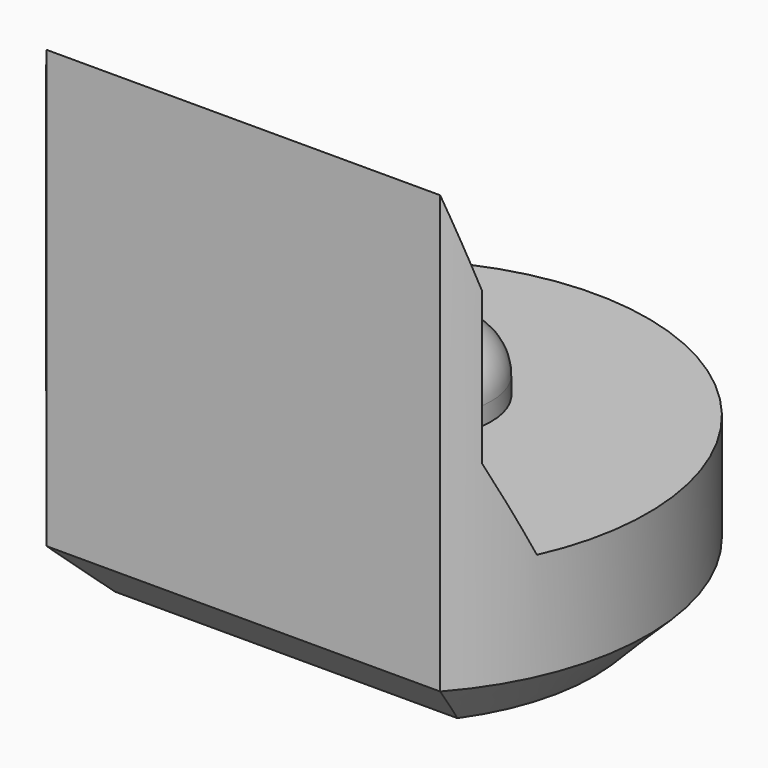
from build123d import *

# Parameters (mm, degrees)
PAD003_DEPTH         = 5.5
POCKET004_DEPTH      = 2.951
POCKET004_DEPTH_BACK = 2.951
SKETCH013_R          = 0.8
PAD006_DEPTH         = 0.7
FILLET_R             = 0.5
CHAMFER004_SIZE      = 0.6


with BuildPart() as part:
    # Sketch004 → Pad003 (new body)
    with BuildSketch(Plane.XY):
        with BuildLine():
            ThreePointArc((2.2, -1.9653244007), (0, 2.95), (-2.2, -1.9653244007))
            Line((-2.2, -1.9653244007), (2.2, -1.9653244007))
        make_face()
    extrude(amount=PAD003_DEPTH)

    # Sketch014 → Pocket004 (cut, two sides)
    with BuildSketch(Plane.YZ) as pocket004_sk:
        Polygon((-1.97, 5.5), (-1.67, 4.5), (-1.67, 2.8), (-1.22, 1.8), (4, 1.8), (4, 5.5), align=None)
    extrude(amount=-POCKET004_DEPTH, mode=Mode.SUBTRACT)
    extrude(pocket004_sk.sketch, amount=POCKET004_DEPTH_BACK, mode=Mode.SUBTRACT)

    # Sketch013 (on Face7 of Pocket004) → Pad006 (join)
    with BuildSketch(Plane.XY.offset(1.8)):
        with Locations((0, 0.5)):
            Circle(SKETCH013_R)
    extrude(amount=PAD006_DEPTH)

    # Fillet
    fillet_edges = [part.edges().sort_by_distance(p)[0] for p in [
        (-0.8, 0.5, 2.5),
    ]]
    fillet(fillet_edges, radius=FILLET_R)

    # Chamfer004
    chamfer004_edges = [part.edges().sort_by_distance(p)[0] for p in [
        (0, 2.95, 0),
        (0, -1.965324, 0),
    ]]
    chamfer(chamfer004_edges, length=CHAMFER004_SIZE)


with BuildPart() as part_1:
    # Body021 placement: moved
    add(part.part.moved(Location((0, 12, 0))))


solid = part_1.part
